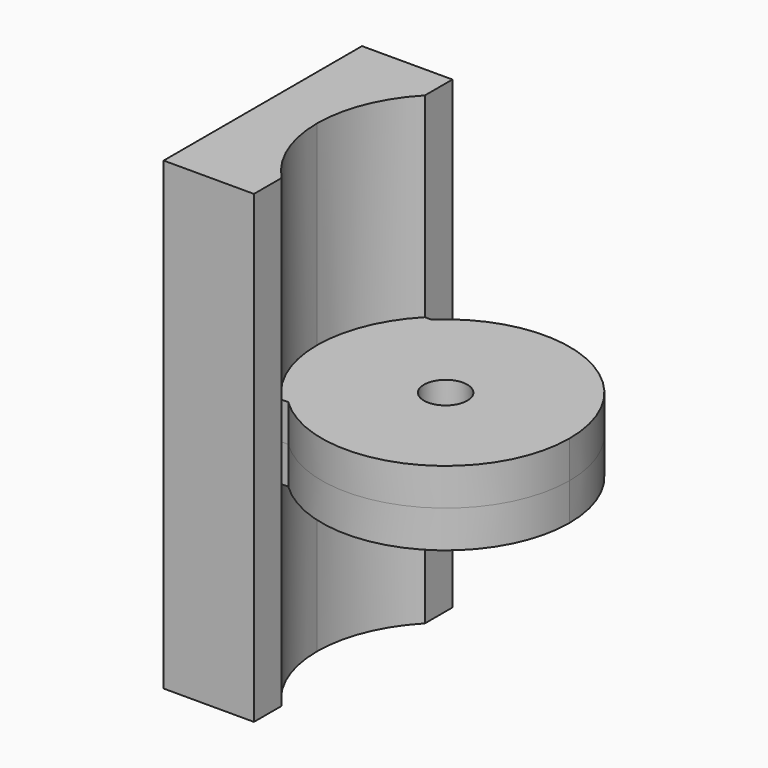
from build123d import *

# Parameters (mm, degrees)
F1_DEPTH = 12
F2_DEPTH = 75
F3_R     = 7
F4_DEPTH = 25
F5_R     = 15
F6_DEPTH = 5


with BuildPart() as f1:
    # F0 (on Top) → F1 (new body)
    with BuildSketch(Plane.XY):
        with BuildLine():
            ThreePointArc((-27.6872290695, 28.8689685727), (-28.772246751, 27.7877278111), (-29.8150709224, 26.6657373026))
            Line((-29.8150709224, 26.6657373026), (-29.8579817649, -26.6176806827))
            ThreePointArc((-29.8579817649, -26.6176806827), (-28.8178231022, -27.7404591103), (-27.7354722388, -28.8226227067))
            ThreePointArc((-27.7354722388, -28.8226227067), (15.6617545385, -36.8063777731), (40, 0))
            ThreePointArc((40, 0), (15.6925274768, 36.7932681532), (-27.6872290695, 28.8689685727))
        make_face()
        with BuildLine():
            Line((-27.6872290695, 28.8689685727), (-29.8132965897, 28.8689685727))
            Line((-29.8132965897, 28.8689685727), (-29.8150709224, 26.6657373026))
            ThreePointArc((-29.8150709224, 26.6657373026), (-28.772246751, 27.7877278111), (-27.6872290695, 28.8689685727))
        make_face()
        with BuildLine():
            Line((-29.8150709224, 26.6657373026), (-29.8132965897, 28.8689685727))
            ThreePointArc((-29.8132965897, 28.8689685727), (-38.4675305191, 15.5723824691), (-41.5, 0))
            ThreePointArc((-41.5, 0), (-38.480058979, -15.5413982954), (-29.8597560976, -28.8209119529))
            Line((-29.8597560976, -28.8209119529), (-29.8579817649, -26.6176806827))
            ThreePointArc((-29.8579817649, -26.6176806827), (-39.9999870288, 0.0322132702), (-29.8150709224, 26.6657373026))
        make_face()
        with BuildLine():
            Line((-29.8579817649, -26.6176806827), (-29.8150709224, 26.6657373026))
            ThreePointArc((-29.8150709224, 26.6657373026), (-39.9999870288, 0.0322132702), (-29.8579817649, -26.6176806827))
        make_face()
        with BuildLine():
            Line((-29.8579817649, -26.6176806827), (-29.8597560976, -28.8209119529))
            Line((-29.8597560976, -28.8209119529), (-27.7354722388, -28.8226227067))
            ThreePointArc((-27.7354722388, -28.8226227067), (-28.8178231022, -27.7404591103), (-29.8579817649, -26.6176806827))
        make_face()
    extrude(amount=F1_DEPTH)

    # F0 (on Top) → F2 (join)
    with BuildSketch(Plane.XY):
        with BuildLine():
            Line((-29.8043321806, 40.0002894977), (-59, 40.0002894977))
            Line((-59, 40.0002894977), (-59, -39.9997105023))
            Line((-59, -39.9997105023), (-29.8687587419, -39.9997105023))
            Line((-29.8687587419, -39.9997105023), (-29.8597560976, -28.8209119529))
            ThreePointArc((-29.8597560976, -28.8209119529), (-38.480058979, -15.5413982954), (-41.5, 0))
            ThreePointArc((-41.5, 0), (-38.4675305191, 15.5723824691), (-29.8132965897, 28.8689685727))
            Line((-29.8132965897, 28.8689685727), (-29.8043321806, 40.0002894977))
        make_face()
    extrude(amount=F2_DEPTH)

    # F3 (on face) → F4 (cut)
    with BuildSketch(Plane.XY.offset(12)):
        Circle(F3_R)
    extrude(amount=-F4_DEPTH, mode=Mode.SUBTRACT)

    # F5 (on face) → F6 (cut)
    with BuildSketch(Plane(origin=(-59, 0, 0), x_dir=(0, -1, 0), z_dir=(-1, 0, 0))):
        with Locations((0, 38.75)):
            Circle(F5_R)
    extrude(amount=-F6_DEPTH, mode=Mode.SUBTRACT)

    # F7: F1 across plane


with BuildPart() as f1_1:
    add(f1.part)
    add(f1.part.mirror(Plane.XY))


solid = f1_1.part
